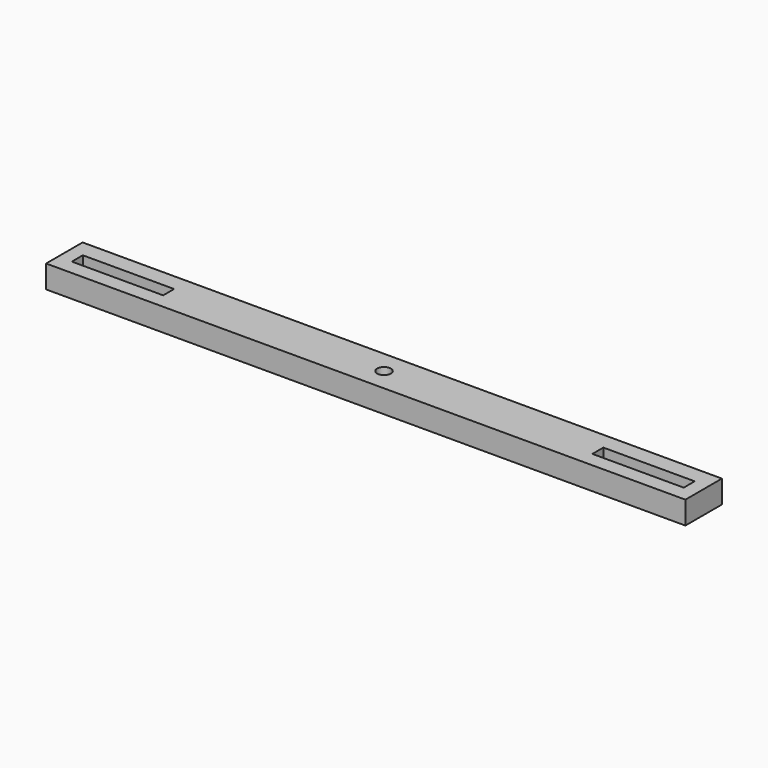
from build123d import *

# Parameters (mm, degrees)
F0_W     = 140
F0_H     = 10
F0_W_2   = 20
F0_H_2   = 3
F0_R     = 1.5
F1_DEPTH = 5


with BuildPart() as f1:
    # F0 (on Top) → F1 (new body)
    with BuildSketch(Plane.XY):
        with Locations((70, 5)):
            Rectangle(F0_W, F0_H)
        with Locations((13, 4.8)):
            Rectangle(F0_W_2, F0_H_2, mode=Mode.SUBTRACT)
        with Locations((127, 4.8)):
            Rectangle(F0_W_2, F0_H_2, mode=Mode.SUBTRACT)
        with Locations((70, 5)):
            Circle(F0_R, mode=Mode.SUBTRACT)
    extrude(amount=F1_DEPTH)


solid = f1.part
